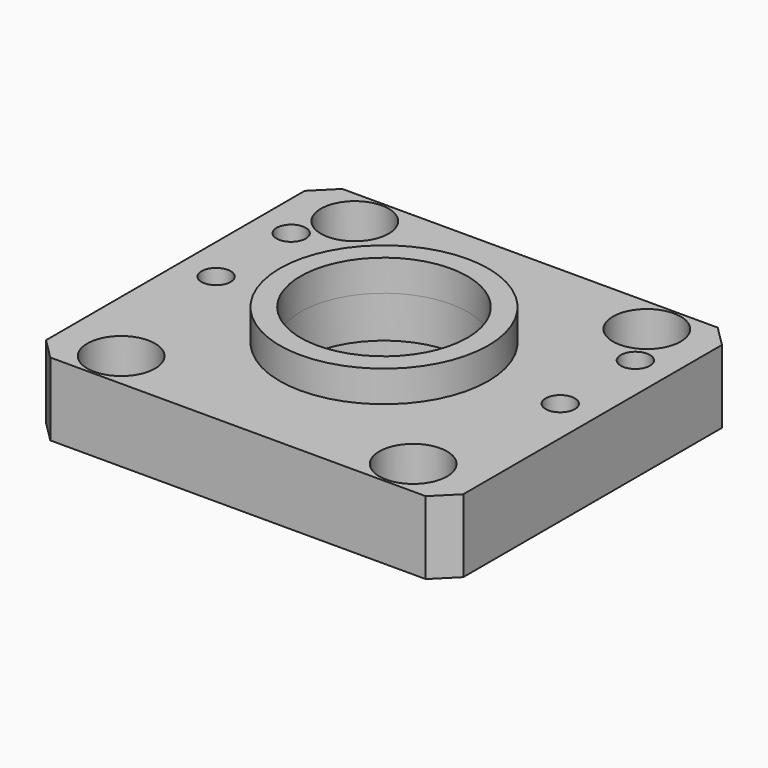
from build123d import *

# Parameters (mm, degrees)
F1_W           = 40
F1_H           = 35
F2_DEPTH       = 7
F3_R           = 10
F3_R_2         = 8
F4_DEPTH       = 3
F5_DEPTH       = 7
F6_R           = 11
F7_DEPTH       = 3
F9_D           = 3.6
F9_CBORE_D     = 6.5
F9_CBORE_DEPTH = 4
F10_D          = 2.8
F11_SIZE       = 2


with BuildPart() as f2:
    # F1 (on Top) → F2 (new body)
    with BuildSketch(Plane.XY):
        Rectangle(F1_W, F1_H)
    extrude(amount=F2_DEPTH)

    # F3 (on face) → F4 (join)
    with BuildSketch(Plane.XY.offset(7)):
        Circle(F3_R)
        Circle(F3_R_2, mode=Mode.SUBTRACT)
    extrude(amount=F4_DEPTH)

    # F5 (cut, through all): a face of the model
    f5_faces = [f2.faces().sort_by_distance(p)[0] for p in [
        (0, 0, 7),
    ]]
    extrude(f5_faces, amount=-F5_DEPTH, mode=Mode.SUBTRACT)

    # F6 (on face) → F7 (cut)
    with BuildSketch(Plane(origin=(0, 0, 0), x_dir=(1, 0, 0), z_dir=(0, 0, -1))):
        Circle(F6_R)
    extrude(amount=-F7_DEPTH, mode=Mode.SUBTRACT)

    # F9 (through all)
    with Locations(Plane.XY.offset(7)):
        with Locations((-14, 14), (14, 14), (14, -14), (-14, -14)):
            CounterBoreHole(F9_D / 2, F9_CBORE_D / 2, F9_CBORE_DEPTH)

    # F10 (through all)
    with Locations(Plane(origin=(0, 0, 0), x_dir=(1, 0, 0), z_dir=(0, 0, -1))):
        with Locations((-16.5, -9.5), (-16.5, -0.5), (16.5, -9.5), (16.5, -0.5)):
            Hole(F10_D / 2)

    # F11
    f11_edges = [f2.edges().sort_by_distance(p)[0] for p in [
        (-20, 17.5, 3.5),
        (-20, -17.5, 3.5),
        (20, 17.5, 3.5),
        (20, -17.5, 3.5),
    ]]
    chamfer(f11_edges, length=F11_SIZE)


solid = f2.part
